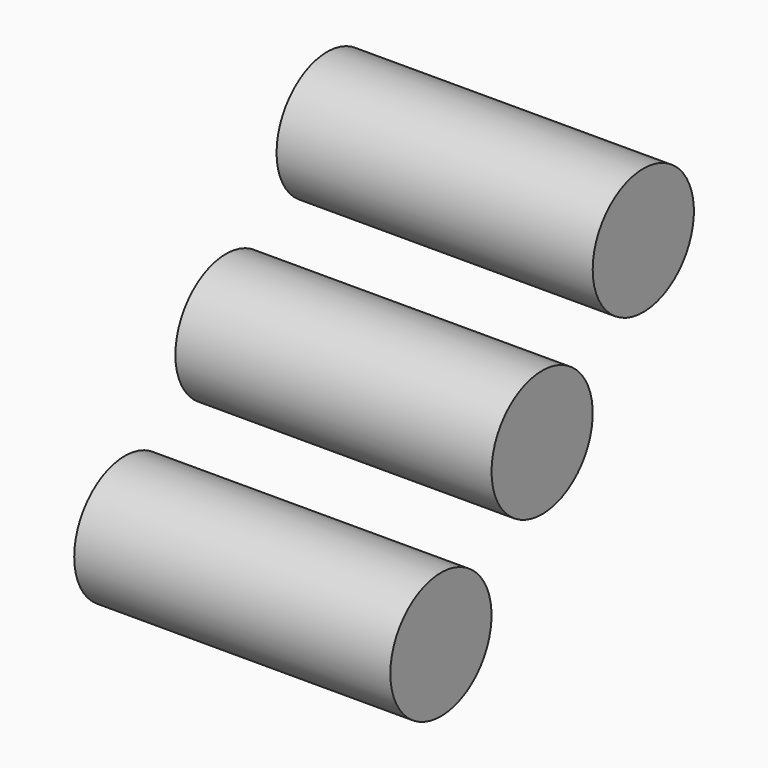
from build123d import *

# Parameters (mm, degrees)
CYLINDER006_R     = 2
CYLINDER006_DEPTH = 10
CYLINDER005_R     = 2
CYLINDER005_DEPTH = 10
CYLINDER007_R     = 2
CYLINDER007_DEPTH = 10


with BuildPart() as cilindre006:
    # Cylinder006 → Cylinder006 (new body)
    with BuildSketch(Plane(origin=(10, 14, 14), x_dir=(0, -1, 0), z_dir=(-1, 0, 0))):
        Circle(CYLINDER006_R)
    extrude(amount=CYLINDER006_DEPTH)


with BuildPart() as fusion001:
    # Cylinder005 → Cylinder005 (new body)
    with BuildSketch(Plane(origin=(10, 10, 10), x_dir=(0, -1, 0), z_dir=(-1, 0, 0))):
        Circle(CYLINDER005_R)
    extrude(amount=CYLINDER005_DEPTH)

    # Fusion001: union Cilindre006
    add(cilindre006.part)


with BuildPart() as fusion002:
    # Cylinder007 → Cylinder007 (new body)
    with BuildSketch(Plane(origin=(10, 6, 6), x_dir=(0, -1, 0), z_dir=(-1, 0, 0))):
        Circle(CYLINDER007_R)
    extrude(amount=CYLINDER007_DEPTH)

    # Fusion002: union Fusion001
    add(fusion001.part)


solid = fusion002.part
